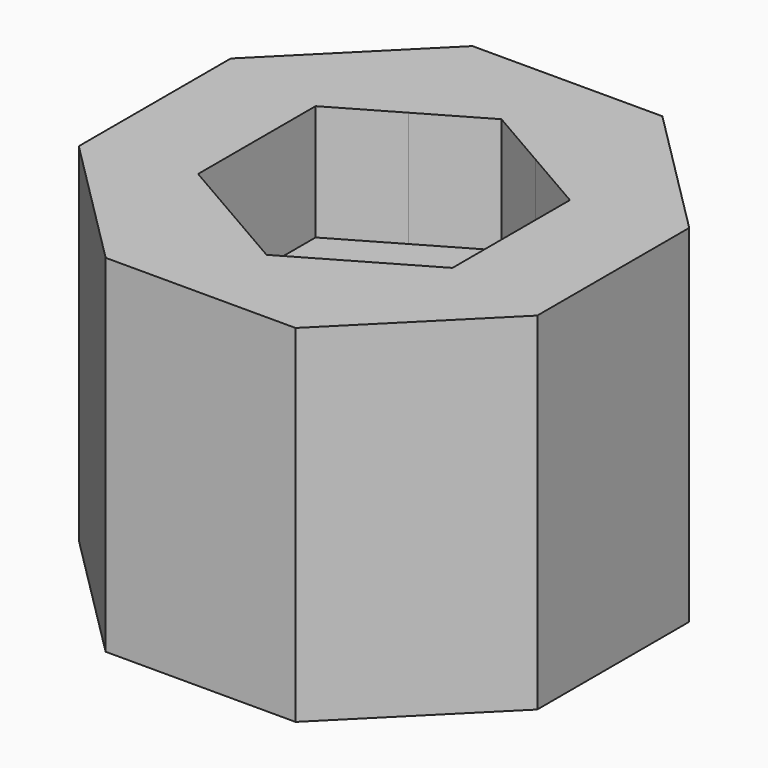
from build123d import *

# Parameters (mm, degrees)
F1_DEPTH = 7.5
F2_DEPTH = 5
F0_R     = 1.5
F3_DEPTH = 5
F4_DEPTH = 3


with BuildPart() as f1:
    # F0 (on Top) → F1 (new body)
    with BuildSketch(Plane.XY):
        Polygon((2.0535090273, 4.9576093443), (-2.0535090273, 4.9576093443), (-4.9576093443, 2.0535090273), (-4.9576093443, -2.0535090273), (-2.0535090273, -4.9576093443), (2.0535090273, -4.9576093443), (4.9576093443, -2.0535090273), (4.9576093443, 2.0535090273), align=None)
        Polygon((2.75, 1.5877132403), (2.75, 0), (2.75, -1.5877132403), (1.3750001046, -2.3815698), (0, -3.1754264805), (-1.3750000168, -2.3815698507), (-2.75, -1.5877132403), (-2.75, 0), (-2.75, 1.5877132403), (-1.3749999907, 2.3815698658), (0, 3.1754264805), (1.3750000803, 2.381569814), align=None, mode=Mode.SUBTRACT)
    extrude(amount=F1_DEPTH)

    # F0 (on Top) → F2 (join)
    with BuildSketch(Plane.XY):
        with BuildLine():
            ThreePointArc((-2.75, 0), (-2.3815698577, 1.3750000046), (-1.3749999907, 2.3815698658))
            Line((-1.3749999907, 2.3815698658), (-2.75, 1.5877132403))
            Line((-2.75, 1.5877132403), (-2.75, 0))
        make_face()
        with BuildLine():
            ThreePointArc((-1.3749999907, 2.3815698658), (5.17e-08, 2.75), (1.3750000803, 2.381569814))
            Line((1.3750000803, 2.381569814), (0, 3.1754264805))
            Line((0, 3.1754264805), (-1.3749999907, 2.3815698658))
        make_face()
        with BuildLine():
            ThreePointArc((1.3750000803, 2.381569814), (2.3815698836, 1.3749999598), (2.75, 0))
            Line((2.75, 0), (2.75, 1.5877132403))
            Line((2.75, 1.5877132403), (1.3750000803, 2.381569814))
        make_face()
        with BuildLine():
            Line((2.75, -1.5877132403), (2.75, 0))
            ThreePointArc((2.75, 0), (2.3815698906, -1.3749999477), (1.3750001046, -2.3815698))
            Line((1.3750001046, -2.3815698), (2.75, -1.5877132403))
        make_face()
        with BuildLine():
            Line((0, -3.1754264805), (1.3750001046, -2.3815698))
            ThreePointArc((1.3750001046, -2.3815698), (5.07e-08, -2.75), (-1.3750000168, -2.3815698507))
            Line((-1.3750000168, -2.3815698507), (0, -3.1754264805))
        make_face()
        with BuildLine():
            Line((-2.75, -1.5877132403), (-1.3750000168, -2.3815698507))
            ThreePointArc((-1.3750000168, -2.3815698507), (-2.3815698653, -1.3749999916), (-2.75, 0))
            Line((-2.75, 0), (-2.75, -1.5877132403))
        make_face()
    extrude(amount=F2_DEPTH)

    # F0 (on Top) → F3 (join)
    with BuildSketch(Plane.XY):
        with BuildLine():
            ThreePointArc((1.3750001046, -2.3815698), (2.3815698906, -1.3749999477), (2.75, 0))
            ThreePointArc((2.75, 0), (2.3815698836, 1.3749999598), (1.3750000803, 2.381569814))
            ThreePointArc((1.3750000803, 2.381569814), (5.17e-08, 2.75), (-1.3749999907, 2.3815698658))
            ThreePointArc((-1.3749999907, 2.3815698658), (-2.3815698577, 1.3750000046), (-2.75, 0))
            ThreePointArc((-2.75, 0), (-2.3815698653, -1.3749999916), (-1.3750000168, -2.3815698507))
            ThreePointArc((-1.3750000168, -2.3815698507), (5.07e-08, -2.75), (1.3750001046, -2.3815698))
        make_face()
        Circle(F0_R, mode=Mode.SUBTRACT)
    extrude(amount=F3_DEPTH)

    # F0 (on Top) → F4 (cut)
    with BuildSketch(Plane.XY):
        with BuildLine():
            ThreePointArc((1.3750001046, -2.3815698), (2.3815698906, -1.3749999477), (2.75, 0))
            ThreePointArc((2.75, 0), (2.3815698836, 1.3749999598), (1.3750000803, 2.381569814))
            ThreePointArc((1.3750000803, 2.381569814), (5.17e-08, 2.75), (-1.3749999907, 2.3815698658))
            ThreePointArc((-1.3749999907, 2.3815698658), (-2.3815698577, 1.3750000046), (-2.75, 0))
            ThreePointArc((-2.75, 0), (-2.3815698653, -1.3749999916), (-1.3750000168, -2.3815698507))
            ThreePointArc((-1.3750000168, -2.3815698507), (5.07e-08, -2.75), (1.3750001046, -2.3815698))
        make_face()
        Circle(F0_R, mode=Mode.SUBTRACT)
    extrude(amount=F4_DEPTH, mode=Mode.SUBTRACT)


solid = f1.part
